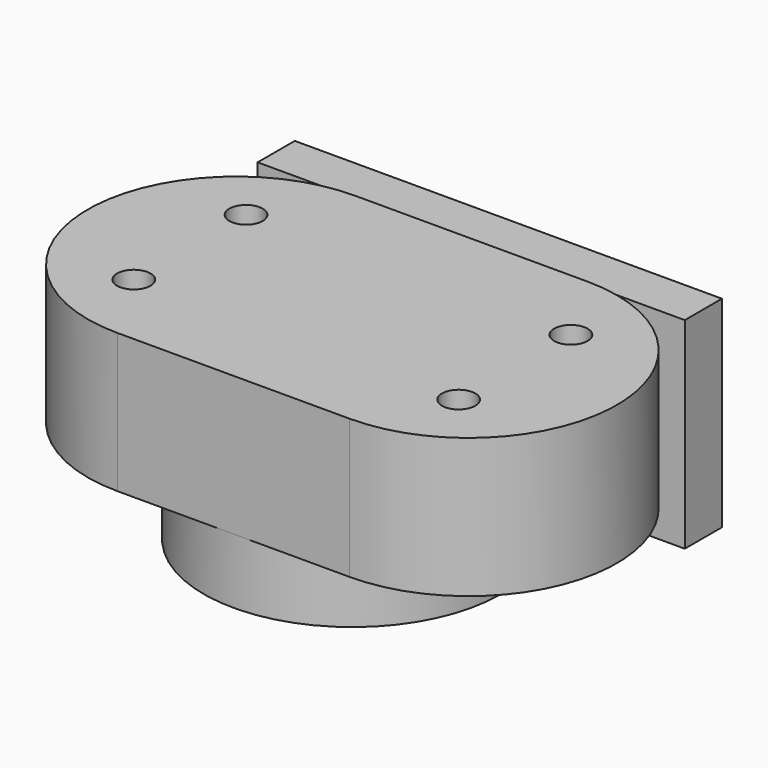
from build123d import *

# Parameters (mm, degrees)
SKETCH029_R     = 16
SKETCH029_R_2   = 10
SKETCH029_R_3   = 1.7
PAD008_DEPTH    = 7
PAD009_DEPTH    = 15
SKETCH031_R     = 1.8
POCKET020_DEPTH = 30
SKETCH032_W     = 46
SKETCH032_H     = 21.675207
PAD010_DEPTH    = 5


with BuildPart() as part:
    # Sketch029 → Pad008 (new body)
    with BuildSketch(Plane.XY):
        Circle(SKETCH029_R)
        Circle(SKETCH029_R_2, mode=Mode.SUBTRACT)
        with Locations((0, 12)):
            Circle(SKETCH029_R_3, mode=Mode.SUBTRACT)
        with Locations((-10.392305, -6)):
            Circle(SKETCH029_R_3, mode=Mode.SUBTRACT)
        with Locations((10.392305, -6)):
            Circle(SKETCH029_R_3, mode=Mode.SUBTRACT)
    extrude(amount=PAD008_DEPTH)

    # Sketch030 (on Face7 of Pad008) → Pad009 (join)
    with BuildSketch(Plane.XY.offset(7)):
        with BuildLine():
            ThreePointArc((-12.5, 16), (-28.5, 0), (-12.5, -16))
            Line((-12.5, -16), (12.5, -16))
            ThreePointArc((12.5, -16), (28.5, 0), (12.5, 16))
            Line((-12.5, 16), (12.5, 16))
        make_face()
    extrude(amount=PAD009_DEPTH)

    # Sketch031 (on Face17 of Pad009) → Pocket020 (cut)
    with BuildSketch(Plane.XY.offset(22)):
        with Locations((-17.491838, 7.554306)):
            Circle(SKETCH031_R)
        with Locations((-17.491838, -7.554306)):
            Circle(SKETCH031_R)
        with Locations((17.491838, -7.554306)):
            Circle(SKETCH031_R)
        with Locations((17.491838, 7.554306)):
            Circle(SKETCH031_R)
    extrude(amount=-POCKET020_DEPTH, mode=Mode.SUBTRACT)

    # Sketch032 (on Face9 of Pocket020) → Pad010 (join)
    with BuildSketch(Plane(origin=(0, 16, 0), x_dir=(-1, 0, 0), z_dir=(0, 1, 0))):
        with Locations((0, 10.914934)):
            Rectangle(SKETCH032_W, SKETCH032_H)
        with BuildLine():
            ThreePointArc((-16.6, 16), (-17, 16.4), (-17.4, 16))
            Line((-17.4, 16), (-17.4, 4))
            ThreePointArc((-17.4, 4), (-17, 3.6), (-16.6, 4))
            Line((-16.6, 16), (-16.6, 4))
        make_face(mode=Mode.SUBTRACT)
        with BuildLine():
            ThreePointArc((17.4, 16), (17, 16.4), (16.6, 16))
            Line((16.6, 16), (16.6, 4))
            ThreePointArc((16.6, 4), (17, 3.6), (17.4, 4))
            Line((17.4, 16), (17.4, 4))
        make_face(mode=Mode.SUBTRACT)
    extrude(amount=PAD010_DEPTH)


solid = part.part
